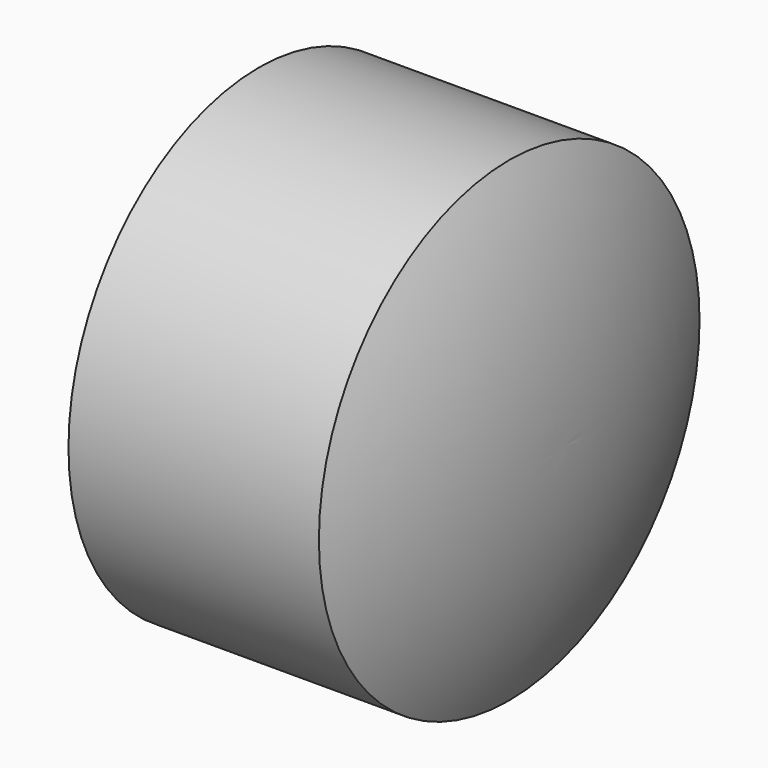
from build123d import *

# Parameters (mm, degrees)
F0_W     = 15
F0_H     = 3
F2_R     = 4.1
F4_R     = 4
F5_DEPTH = 13


with BuildPart() as f1:
    # F0 (on Top) → F1 (revolve)
    with BuildSketch(Plane.XY):
        with BuildLine():
            Line((15, 14.25), (15, 11.25))
            ThreePointArc((15, 11.25), (16.2836091475, 5.6846908501), (16.8355224703, 0))
            Line((16.8355224703, 0), (17.9961773834, 0))
            ThreePointArc((17.9961773834, 0), (17.2938882179, 7.2923232661), (15, 14.25))
        make_face()
        with Locations((7.5, 12.75)):
            Rectangle(F0_W, F0_H)
    revolve(axis=Axis((8.9980886917, 0, 0), (1, 0, 0)))

    # F2 (on Right) → F3 (join, up to the next surface of F1)
    with BuildSketch(Plane.YZ):
        Circle(F2_R)
    extrude(until=Until.NEXT)

    # F4 (on face) → F5 (cut)
    with BuildSketch(Plane(origin=(0, 0, 0), x_dir=(0, -1, 0), z_dir=(-1, 0, 0))):
        Circle(F4_R)
    extrude(amount=-F5_DEPTH, mode=Mode.SUBTRACT)


solid = f1.part
